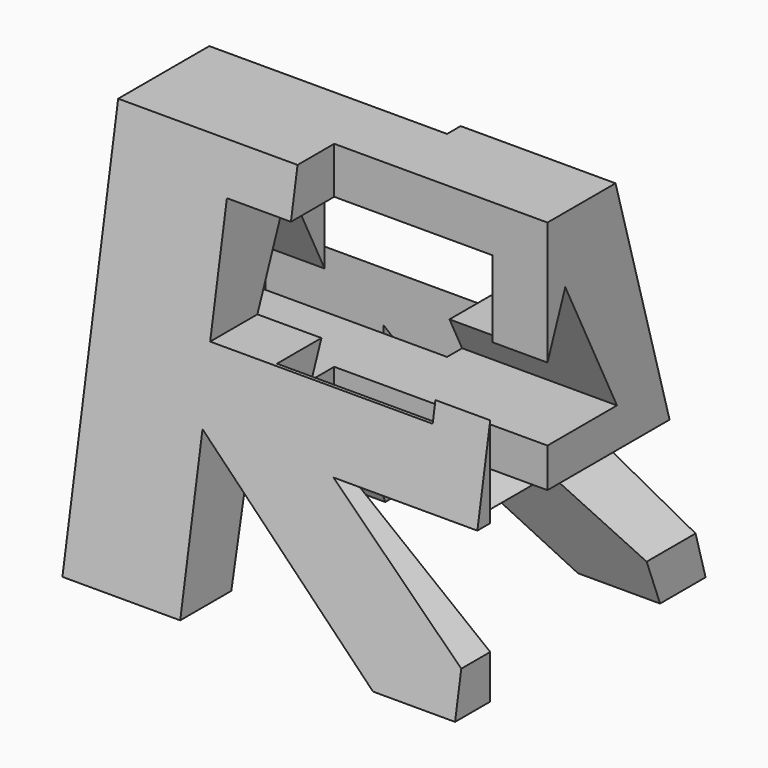
from build123d import *

# Parameters (mm, degrees)
F0_W     = 38.1
F0_H     = 38.1
F1_DEPTH = 38.1
F4_W     = 21.59
F4_H     = 11.43
F5_DEPTH = 38.1
F7_DEPTH = 38.1
F8_W     = 20.69306
F8_H     = 6.94398
F9_DEPTH = 38.1


with BuildPart() as f1:
    # F0 (on Front) → F1 (new body)
    with BuildSketch(Plane.XZ):
        with Locations((-19.05, 19.05)):
            Rectangle(F0_W, F0_H)
    extrude(amount=F1_DEPTH)

    # F4 (on offset) → F5 (cut)
    with BuildSketch(Plane.XZ.offset(38.1)):
        with Locations((-16.112197, 27.854883)):
            Rectangle(F4_W, F4_H)
        Polygon((-26.67, 15.24), (-26.67, 0), (-16.748283, 0), (-12.880538, 0), (-7.961732, 0), align=None)
        Polygon((0, 4.241477), (0, 15.24), (-13.97, 15.24), align=None)
    extrude(amount=-F5_DEPTH, mode=Mode.SUBTRACT)

    # F6 (on offset) → F7 (cut)
    with BuildSketch(Plane.YZ.offset(-38.1)):
        Polygon((0, 38.1), (-12.885808, 38.1), (-1.962553, 0), (0, 0), align=None)
        Polygon((-18.980795, 31.710041), (-23.886719, 19.05), (-12.708837, 19.05), align=None)
        Polygon((-25.585808, 38.1), (-38.1, 38.1), (-38.1, 0), (-32.347631, 0), align=None)
        Polygon((-24.083182, 10.16), (-26.149293, 0), (-13.001305, 0), (-7.481929, 0), (-11.383182, 10.16), align=None)
    extrude(amount=F7_DEPTH, mode=Mode.SUBTRACT)

    # F8 (on Top) → F9 (cut)
    with BuildSketch(Plane.XY):
        Polygon((-15.027703, -7.71672), (-38.1, -7.71672), (-38.1, -12.706961), (-38.1, -14.533657), (-15.027703, -14.533657), align=None)
        with Locations((-10.34653, -24.610928)):
            Rectangle(F8_W, F8_H)
    extrude(amount=F9_DEPTH, mode=Mode.SUBTRACT)


solid = f1.part
